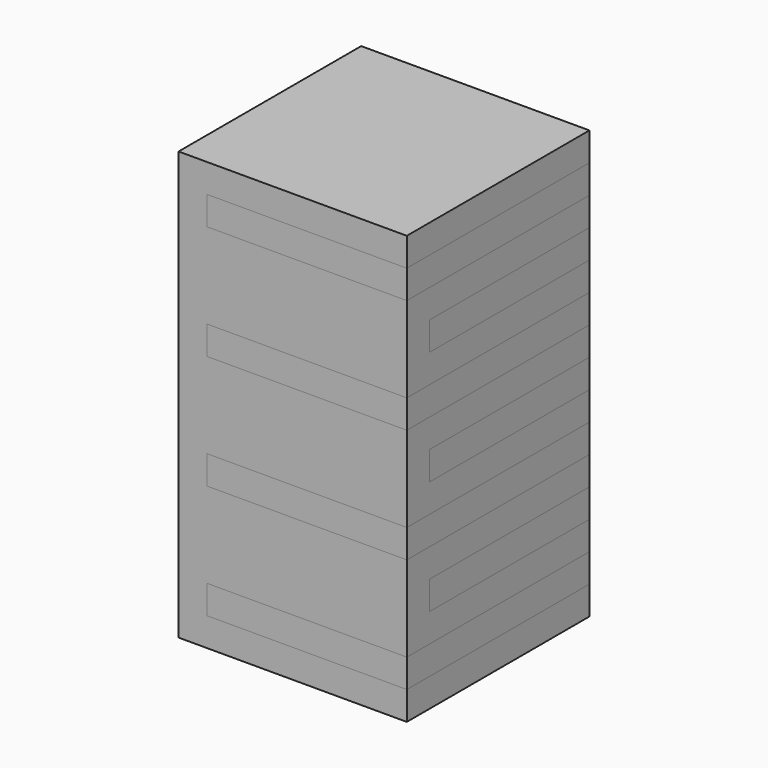
from build123d import *

# Parameters (mm, degrees)
F0_W      = 203.2
F0_H      = 381
F1_DEPTH  = 203.2
F2_W      = 177.8
F2_H      = 25.4
F3_DEPTH  = 203.201
F4_W      = 177.8
F4_H      = 25.4
F5_DEPTH  = 203.201
F6_W      = 152.4
F6_H      = 152.4
F7_DEPTH  = 381.001
F8_DEPTH  = 203.2
F9_DEPTH  = 203.2
F10_DEPTH = 152.4
F11_DEPTH = 152.4


with BuildPart() as f1:
    # F0 (on Front) → F1 (new body)
    with BuildSketch(Plane.XZ):
        with Locations((101.6, 190.5)):
            Rectangle(F0_W, F0_H)
    extrude(amount=F1_DEPTH)

    # F2 (on face) → F3 (cut, through all)
    with BuildSketch(Plane.XZ.offset(203.2)):
        with Locations((114.3, 342.9)):
            Rectangle(F2_W, F2_H)
        with Locations((114.3, 241.3)):
            Rectangle(F2_W, F2_H)
        with Locations((114.3, 139.7)):
            Rectangle(F2_W, F2_H)
        with Locations((114.3, 38.1)):
            Rectangle(F2_W, F2_H)
    extrude(amount=-F3_DEPTH, mode=Mode.SUBTRACT)

    # F4 (on face) → F5 (cut, through all)
    with BuildSketch(Plane.YZ.offset(203.2)):
        with Locations((-88.9, 292.1)):
            Rectangle(F4_W, F4_H)
        with Locations((-88.9, 190.5)):
            Rectangle(F4_W, F4_H)
        with Locations((-88.9, 88.9)):
            Rectangle(F4_W, F4_H)
    extrude(amount=-F5_DEPTH, mode=Mode.SUBTRACT)

    # F6 (on face) → F7 (cut, through all)
    with BuildSketch(Plane.XY.offset(381)):
        with Locations((101.6, -101.6)):
            Rectangle(F6_W, F6_H)
    extrude(amount=-F7_DEPTH, mode=Mode.SUBTRACT)

    # F10 (add, through all): a face of the model
    f10_faces = [f1.faces().sort_by_distance(p)[0] for p in [
        (101.6, -177.8, 368.3),
    ]]
    extrude(f10_faces, amount=F10_DEPTH)

    # F11 (add, through all): a face of the model
    f11_faces = [f1.faces().sort_by_distance(p)[0] for p in [
        (101.6, -177.8, 12.7),
    ]]
    extrude(f11_faces, amount=F11_DEPTH)


with BuildPart() as f8:
    # F2 (on face) → F8 (new body)
    with BuildSketch(Plane.XZ.offset(203.2)):
        with Locations((114.3, 342.9)):
            Rectangle(F2_W, F2_H)
    extrude(amount=-F8_DEPTH)


with BuildPart() as f8b:
    # F2 (on face) → F8, piece 2 (new body)
    with BuildSketch(Plane.XZ.offset(203.2)):
        with Locations((114.3, 241.3)):
            Rectangle(F2_W, F2_H)
    extrude(amount=-F8_DEPTH)


with BuildPart() as f8c:
    # F2 (on face) → F8, piece 3 (new body)
    with BuildSketch(Plane.XZ.offset(203.2)):
        with Locations((114.3, 139.7)):
            Rectangle(F2_W, F2_H)
    extrude(amount=-F8_DEPTH)


with BuildPart() as f8d:
    # F2 (on face) → F8, piece 4 (new body)
    with BuildSketch(Plane.XZ.offset(203.2)):
        with Locations((114.3, 38.1)):
            Rectangle(F2_W, F2_H)
    extrude(amount=-F8_DEPTH)


with BuildPart() as f9:
    # F4 (on face) → F9 (new body)
    with BuildSketch(Plane.YZ.offset(203.2)):
        with Locations((-88.9, 292.1)):
            Rectangle(F4_W, F4_H)
    extrude(amount=-F9_DEPTH)


with BuildPart() as f9b:
    # F4 (on face) → F9, piece 2 (new body)
    with BuildSketch(Plane.YZ.offset(203.2)):
        with Locations((-88.9, 190.5)):
            Rectangle(F4_W, F4_H)
    extrude(amount=-F9_DEPTH)


with BuildPart() as f9c:
    # F4 (on face) → F9, piece 3 (new body)
    with BuildSketch(Plane.YZ.offset(203.2)):
        with Locations((-88.9, 88.9)):
            Rectangle(F4_W, F4_H)
    extrude(amount=-F9_DEPTH)


solid = Compound([f1.part, f8.part, f8b.part, f8c.part, f8d.part, f9.part, f9b.part, f9c.part])
